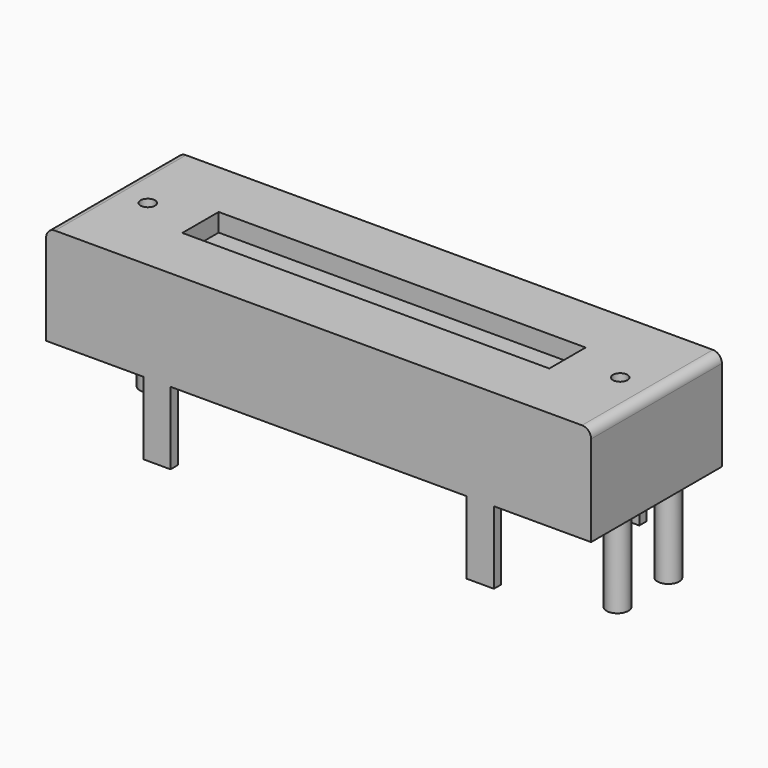
from build123d import *

# Parameters (mm, degrees)
SKETCH_W        = 30
SKETCH_H        = 9
PAD_DEPTH       = 5.5
SKETCH001_R     = 0.4
POCKET_DEPTH    = 10
SKETCH002_W     = 20.2
SKETCH002_H     = 2.5
POCKET001_DEPTH = 1
FILLET_R        = 0.5
FILLET001_R     = 0.5
SKETCH003_W     = 1.5
SKETCH003_H     = 0.5
PAD001_DEPTH    = 4
SKETCH004_R     = 0.6
PAD002_DEPTH    = 4.5


with BuildPart() as part:
    # Sketch → Pad (new body)
    with BuildSketch(Plane.XY):
        with Locations((15, 4.5)):
            Rectangle(SKETCH_W, SKETCH_H)
    extrude(amount=PAD_DEPTH)

    # Sketch001 → Pocket (cut)
    with BuildSketch(Plane.XY.offset(5.5)):
        with Locations((2, 4.5)):
            Circle(SKETCH001_R)
        with Locations((28, 4.5)):
            Circle(SKETCH001_R)
    extrude(amount=-POCKET_DEPTH, mode=Mode.SUBTRACT)

    # Sketch002 → Pocket001 (cut)
    with BuildSketch(Plane.XY.offset(5.5)):
        with Locations((15, 4.5)):
            Rectangle(SKETCH002_W, SKETCH002_H)
    extrude(amount=-POCKET001_DEPTH, mode=Mode.SUBTRACT)

    # Fillet
    fillet_edges = [part.edges().sort_by_distance(p)[0] for p in [
        (0, 4.5, 5.5),
    ]]
    fillet(fillet_edges, radius=FILLET_R)

    # Fillet001
    fillet001_edges = [part.edges().sort_by_distance(p)[0] for p in [
        (30, 4.5, 5.5),
    ]]
    fillet(fillet001_edges, radius=FILLET001_R)

    # Sketch003 → Pad001 (new body)
    with BuildSketch(Plane(origin=(0, 0, 0), x_dir=(1, 0, 0), z_dir=(0, 0, -1))):
        with Locations((6.1, -0.25)):
            Rectangle(SKETCH003_W, SKETCH003_H)
        with Locations((23.9, -0.25)):
            Rectangle(SKETCH003_W, SKETCH003_H)
        with Locations((4.9, -8.75)):
            Rectangle(SKETCH003_W, SKETCH003_H)
        with Locations((25.1, -8.75)):
            Rectangle(SKETCH003_W, SKETCH003_H)
    extrude(amount=PAD001_DEPTH)

    # Sketch004 → Pad002 (new body)
    with BuildSketch(Plane(origin=(0, 0, 0), x_dir=(1, 0, 0), z_dir=(0, 0, -1))):
        with Locations((29.25, -6.25)):
            Circle(SKETCH004_R)
        with Locations((0.75, -6.25)):
            Circle(SKETCH004_R)
        with Locations((29.25, -2.75)):
            Circle(SKETCH004_R)
    extrude(amount=PAD002_DEPTH)


solid = part.part
